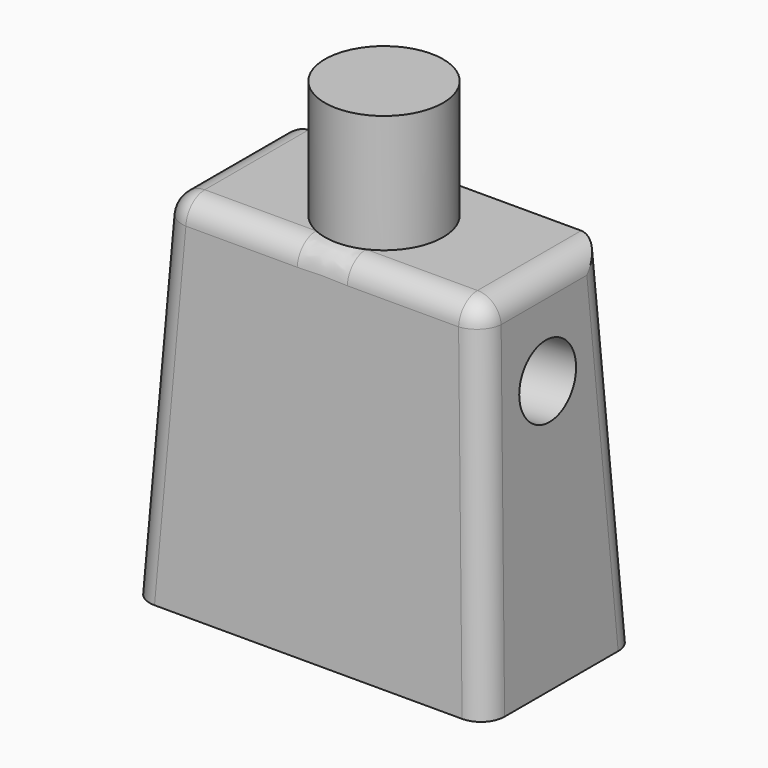
from build123d import *

# Parameters (mm, degrees)
F0_W     = 15
F0_H     = 8
F1_DEPTH = 15
F1_TAPER = 3
F2_R     = 2.5
F3_DEPTH = 5
F4_R     = 1
F5_R     = 1.5
F6_DEPTH = 3
F7_R     = 1.5
F8_DEPTH = 3


with BuildPart() as f1:
    # F0 (on Top) → F1 (new body)
    with BuildSketch(Plane.XY):
        Rectangle(F0_W, F0_H)
    extrude(amount=F1_DEPTH, taper=F1_TAPER)

    # F2 (on face) → F3 (join)
    with BuildSketch(Plane.XY.offset(15)):
        Circle(F2_R)
    extrude(amount=F3_DEPTH)

    # F4
    f4_edges = [f1.edges().sort_by_distance(p)[0] for p in [
        (-7.106942, -3.606942, 7.5),
        (0, -3.213883, 15),
        (7.106942, -3.606942, 7.5),
        (6.713883, 0, 15),
        (7.106942, 3.606942, 7.5),
        (-6.713883, 0, 15),
        (-7.106942, 3.606942, 7.5),
    ]]
    fillet(f4_edges, radius=F4_R)

    # F5 (on face) → F6 (cut)
    with BuildSketch(Plane(origin=(-7.4794571076, 0, 0.3919817373), x_dir=(0, -1, 0), z_dir=(-0.9986295348, 0, 0.0523359562))):
        with Locations((0, 10.6777304862)):
            Circle(F5_R)
    extrude(amount=-F6_DEPTH, mode=Mode.SUBTRACT)

    # F7 (on face) → F8 (cut)
    with BuildSketch(Plane(origin=(7.4794571076, 0, 0.3919817373), x_dir=(0, 1, 0), z_dir=(0.9986295348, 0, 0.0523359562))):
        with Locations((0, 10.7058982886)):
            Circle(F7_R)
    extrude(amount=-F8_DEPTH, mode=Mode.SUBTRACT)


solid = f1.part
